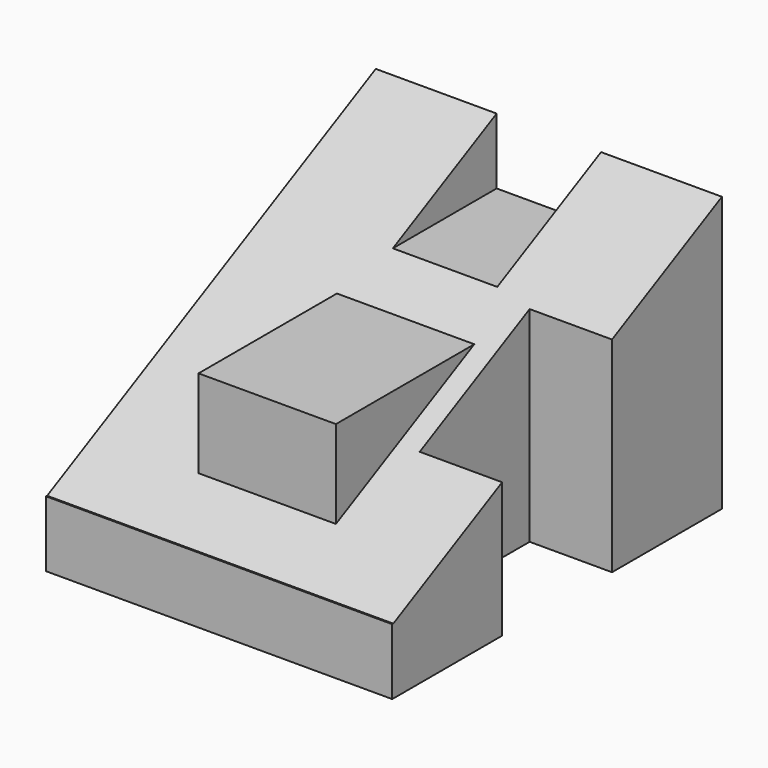
from build123d import *

# Parameters (mm, degrees)
SKETCH_W        = 63
SKETCH_H        = 75
PAD_DEPTH       = 12
PAD001_DEPTH    = 63
SKETCH002_W     = 19
SKETCH002_H     = 22.106678
POCKET_DEPTH    = 75.001
SKETCH003_W     = 25
SKETCH003_H     = 65.320022
POCKET001_DEPTH = 15
SKETCH004_W     = 25
SKETCH004_H     = 5
PAD002_DEPTH    = 1
PAD003_DEPTH    = 25


with BuildPart() as part:
    # Sketch → Pad (new body)
    with BuildSketch(Plane.XY):
        Rectangle(SKETCH_W, SKETCH_H)
    extrude(amount=PAD_DEPTH)

    # Sketch001 → Pad001 (new body)
    with BuildSketch(Plane.YZ.offset(31.5)):
        Polygon((-37.260017, 12), (37.5, 50), (37.5, 12), align=None)
    extrude(amount=-PAD001_DEPTH)

    # Sketch002 → Pocket (cut, through all)
    with BuildSketch(Plane(origin=(0, 37.5, 0), x_dir=(-1, 0, 0), z_dir=(0, 1, 0))):
        with Locations((0, 49.053339)):
            Rectangle(SKETCH002_W, SKETCH002_H)
    extrude(amount=-POCKET_DEPTH, mode=Mode.SUBTRACT)

    # Sketch003 → Pocket001 (cut)
    with BuildSketch(Plane.YZ.offset(31.5)):
        with Locations((0, 22.23333)):
            Rectangle(SKETCH003_W, SKETCH003_H)
    extrude(amount=-POCKET001_DEPTH, mode=Mode.SUBTRACT)

    # Sketch004 → Pad002 (new body)
    with BuildSketch(Plane(origin=(0, -12.497267, 24.586735), x_dir=(1, 0, 0), z_dir=(0, -0.453118, 0.89145))):
        with Locations((0, -5.278043)):
            Rectangle(SKETCH004_W, SKETCH004_H)
    extrude(amount=PAD002_DEPTH)

    # Sketch005 → Pad003 (new body)
    with BuildSketch(Plane(origin=(-12.5, 0, 0), x_dir=(0, -1, 0), z_dir=(-1, 0, 0))):
        Polygon((-4.915291, 33.437417), (26.562611, 17.437417), (26.562611, 33.437417), align=None)
    extrude(amount=-PAD003_DEPTH)


solid = part.part
